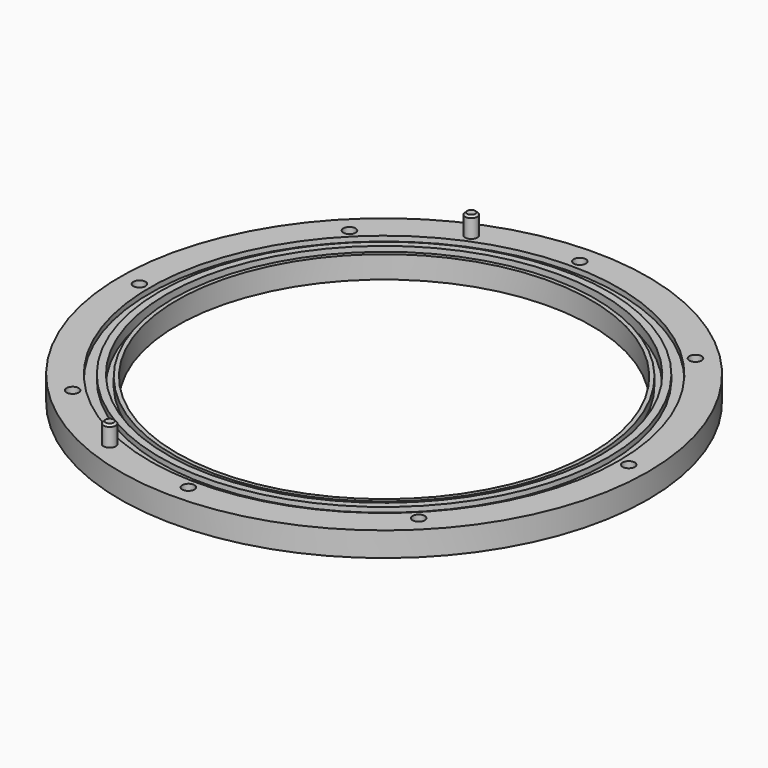
from build123d import *

# Parameters (mm, degrees)
F0_R      = 130
F0_R_2    = 102
F1_DEPTH  = 12
F2_R      = 115.5
F2_R_2    = 110.5
F3_DEPTH  = 2.5
F4_R      = 107
F4_R_2    = 104
F5_DEPTH  = 5
F6_R      = 104
F6_R_2    = 102
F7_DEPTH  = 1
F8_R      = 3
F9_DEPTH  = 12
F10_DEPTH = 10
F11_SIZE  = 1
F12_SIZE  = 1


with BuildPart() as f1:
    # F0 (on Top) → F1 (new body)
    with BuildSketch(Plane.XY):
        Circle(F0_R)
        Circle(F0_R_2, mode=Mode.SUBTRACT)
    extrude(amount=F1_DEPTH)

    # F2 (on face) → F3 (cut)
    with BuildSketch(Plane.XY.offset(12)):
        Circle(F2_R)
        Circle(F2_R_2, mode=Mode.SUBTRACT)
    extrude(amount=-F3_DEPTH, mode=Mode.SUBTRACT)

    # F4 (on face) → F5 (cut)
    with BuildSketch(Plane.XY.offset(12)):
        Circle(F4_R)
        Circle(F4_R_2, mode=Mode.SUBTRACT)
    extrude(amount=-F5_DEPTH, mode=Mode.SUBTRACT)

    # F6 (on face) → F7 (cut)
    with BuildSketch(Plane.XY.offset(12)):
        Circle(F6_R)
        Circle(F6_R_2, mode=Mode.SUBTRACT)
    extrude(amount=-F7_DEPTH, mode=Mode.SUBTRACT)

    # F8 (on face) → F9 (cut)
    with BuildSketch(Plane.XY.offset(12)):
        with Locations((-120.5, 0)):
            Circle(F8_R)
        with Locations((-85.206367, 85.206367)):
            Circle(F8_R)
        with Locations((0, 120.5)):
            Circle(F8_R)
        with Locations((120.5, 0)):
            Circle(F8_R)
        with Locations((85.206367, 85.206367)):
            Circle(F8_R)
        with Locations((85.206367, -85.206367)):
            Circle(F8_R)
        with Locations((0, -120.5)):
            Circle(F8_R)
        with Locations((-85.206367, -85.206367)):
            Circle(F8_R)
    extrude(amount=-F9_DEPTH, mode=Mode.SUBTRACT)

    # F8 (on face) → F10 (join)
    with BuildSketch(Plane.XY.offset(12)):
        with Locations((-46.113354, 111.327484)):
            Circle(F8_R)
        with Locations((-46.113354, -111.327484)):
            Circle(F8_R)
    extrude(amount=F10_DEPTH)

    # F11
    f11_edges = [f1.edges().sort_by_distance(p)[0] for p in [
        (-49.113354, -111.327484, 22),
    ]]
    chamfer(f11_edges, length=F11_SIZE)

    # F12
    f12_edges = [f1.edges().sort_by_distance(p)[0] for p in [
        (-49.113354, 111.327484, 22),
    ]]
    chamfer(f12_edges, length=F12_SIZE)


solid = f1.part
